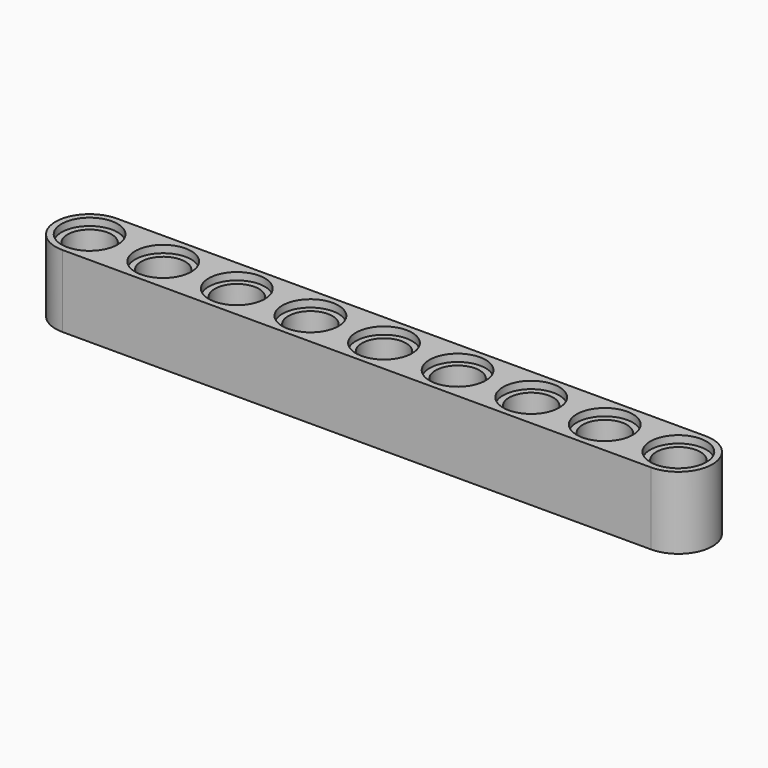
from build123d import *

# Parameters (mm, degrees)
F0_R     = 2.4
F1_DEPTH = 7.85
F2_R     = 3.05
F3_DEPTH = 0.8
F4_R     = 3.05
F5_DEPTH = 0.8


with BuildPart() as f1:
    # F0 (on Top) → F1 (new body)
    with BuildSketch(Plane.XY):
        with BuildLine():
            ThreePointArc((0, 7.4), (-3.7, 3.7), (0, 0))
            Line((0, 0), (64, 0))
            ThreePointArc((64, 0), (67.7, 3.7), (64, 7.4))
            Line((64, 7.4), (0, 7.4))
        make_face()
        with Locations((0, 3.7)):
            Circle(F0_R, mode=Mode.SUBTRACT)
        with Locations((8, 3.7)):
            Circle(F0_R, mode=Mode.SUBTRACT)
        with Locations((16, 3.7)):
            Circle(F0_R, mode=Mode.SUBTRACT)
        with Locations((24, 3.7)):
            Circle(F0_R, mode=Mode.SUBTRACT)
        with Locations((32, 3.7)):
            Circle(F0_R, mode=Mode.SUBTRACT)
        with Locations((40, 3.7)):
            Circle(F0_R, mode=Mode.SUBTRACT)
        with Locations((48, 3.7)):
            Circle(F0_R, mode=Mode.SUBTRACT)
        with Locations((56, 3.7)):
            Circle(F0_R, mode=Mode.SUBTRACT)
        with Locations((64, 3.7)):
            Circle(F0_R, mode=Mode.SUBTRACT)
    extrude(amount=F1_DEPTH)

    # F2 (on face) → F3 (cut)
    with BuildSketch(Plane.XY.offset(7.85)):
        with Locations((0, 3.7)):
            Circle(F2_R)
        with Locations((8, 3.7)):
            Circle(F2_R)
        with Locations((16, 3.7)):
            Circle(F2_R)
        with Locations((24, 3.7)):
            Circle(F2_R)
        with Locations((32, 3.7)):
            Circle(F2_R)
        with Locations((40, 3.7)):
            Circle(F2_R)
        with Locations((48, 3.7)):
            Circle(F2_R)
        with Locations((56, 3.7)):
            Circle(F2_R)
        with Locations((64, 3.7)):
            Circle(F2_R)
    extrude(amount=-F3_DEPTH, mode=Mode.SUBTRACT)

    # F4 (on face) → F5 (cut)
    with BuildSketch(Plane(origin=(0, 0, 0), x_dir=(1, 0, 0), z_dir=(0, 0, -1))):
        with Locations((0, -3.7)):
            Circle(F4_R)
        with Locations((8, -3.7)):
            Circle(F4_R)
        with Locations((16, -3.7)):
            Circle(F4_R)
        with Locations((24, -3.7)):
            Circle(F4_R)
        with Locations((32, -3.7)):
            Circle(F4_R)
        with Locations((64, -3.7)):
            Circle(F4_R)
        with Locations((56, -3.7)):
            Circle(F4_R)
        with Locations((40, -3.7)):
            Circle(F4_R)
        with Locations((48, -3.7)):
            Circle(F4_R)
    extrude(amount=-F5_DEPTH, mode=Mode.SUBTRACT)


solid = f1.part
